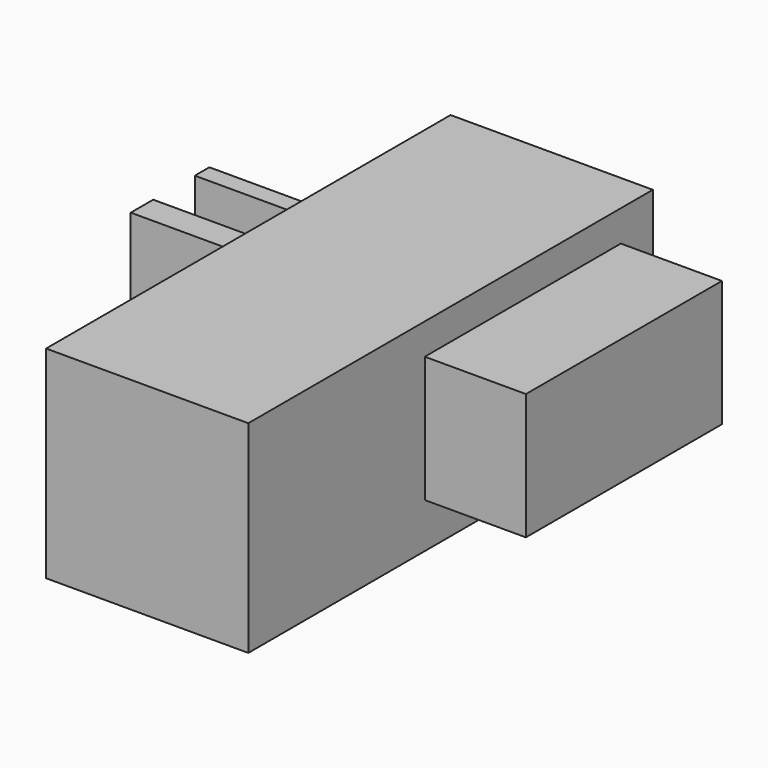
from build123d import *

# Parameters (mm, degrees)
F0_W     = 50.8
F0_H     = 50.8
F1_DEPTH = 127
F2_W     = 61.540618
F2_H     = 31.693089
F3_DEPTH = 25.4
F4_W     = 4.559308
F4_H     = 22.648551
F5_DEPTH = 25.4
F4_W_2   = 7.057599
F6_DEPTH = 25.4


with BuildPart() as f1:
    # F0 (on Front) → F1 (new body)
    with BuildSketch(Plane.XZ):
        with Locations((-10.617148, -0.824959)):
            Rectangle(F0_W, F0_H)
    extrude(amount=F1_DEPTH)

    # F2 (on face) → F3 (join, symmetric)
    with BuildSketch(Plane.YZ.offset(14.782852)):
        with Locations((-40.822573, 0.91443)):
            Rectangle(F2_W, F2_H)
    extrude(amount=F3_DEPTH, both=True)

    # F4 (on face) → F5 (join)
    with BuildSketch(Plane(origin=(-36.017148, 0, 0), x_dir=(0, -1, 0), z_dir=(-1, 0, 0))):
        with Locations((46.267241, 11.324275)):
            Rectangle(F4_W, F4_H)
    extrude(amount=F5_DEPTH)

    # F4 (on face) → F6 (join)
    with BuildSketch(Plane(origin=(-36.017148, 0, 0), x_dir=(0, -1, 0), z_dir=(-1, 0, 0))):
        with Locations((65.138158, 11.324275)):
            Rectangle(F4_W_2, F4_H)
    extrude(amount=F6_DEPTH)


solid = f1.part
